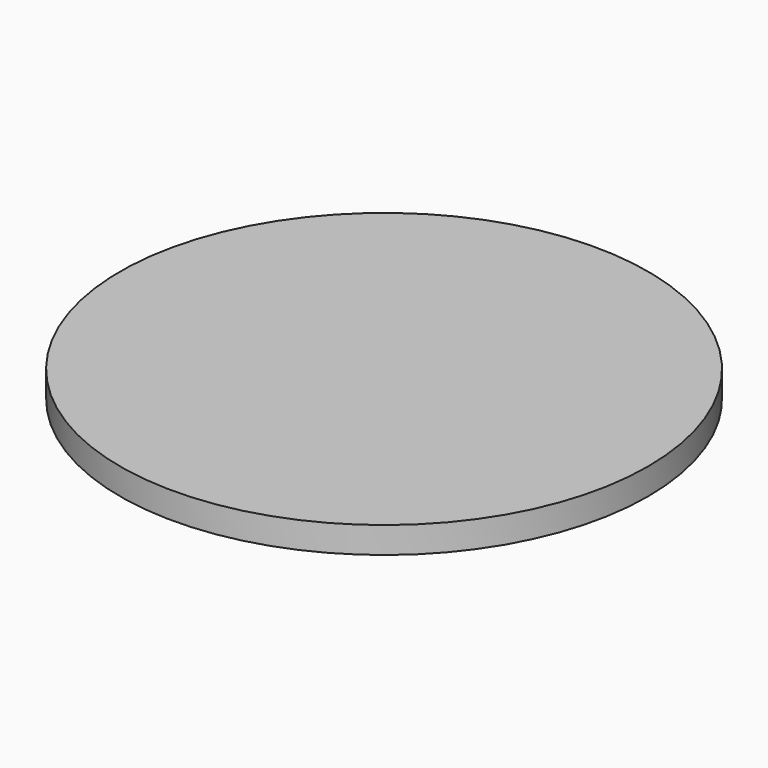
from build123d import *

# Parameters (mm, degrees)
SKETCH_R  = 30
PAD_DEPTH = 3


with BuildPart() as part:
    # Sketch → Pad (new body)
    with BuildSketch(Plane.XY):
        Circle(SKETCH_R)
    extrude(amount=PAD_DEPTH)


solid = part.part
